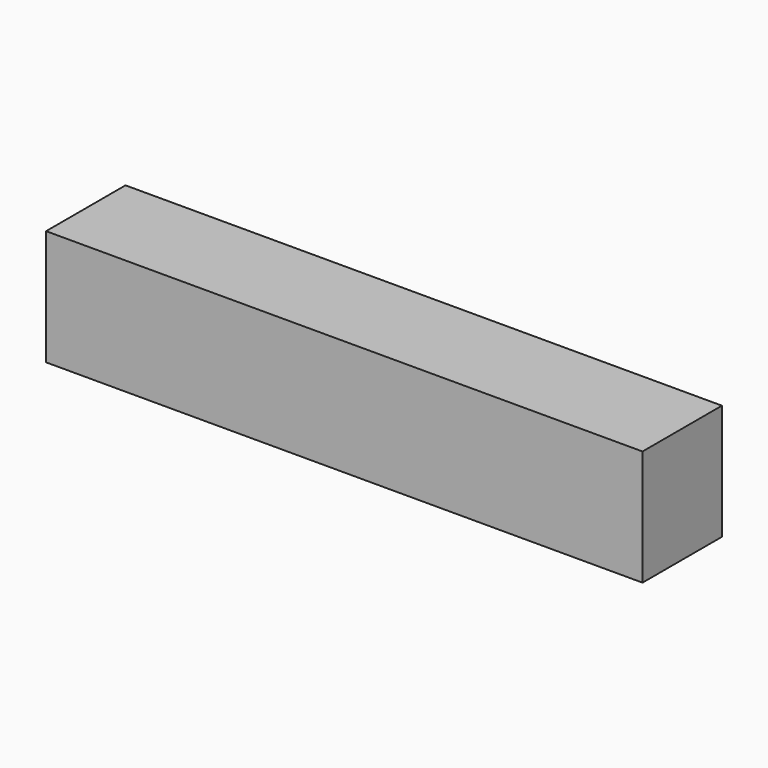
from build123d import *

# Parameters (mm, degrees)
F0_W     = 76.680094
F0_H     = 13.567405
F0_H_2   = 15.990164
F0_W_2   = 75.95326
F1_DEPTH = 25.4


with BuildPart() as f1:
    # F0 (on Front) → F1 (new body)
    with BuildSketch(Plane.XZ):
        with Locations((38.340047, -6.783702)):
            Rectangle(F0_W, F0_H)
        with Locations((38.340047, 7.995082)):
            Rectangle(F0_W, F0_H_2)
        with Locations((-37.97663, -6.783702)):
            Rectangle(F0_W_2, F0_H)
        with Locations((-37.97663, 7.995082)):
            Rectangle(F0_W_2, F0_H_2)
    extrude(amount=F1_DEPTH)


solid = f1.part
